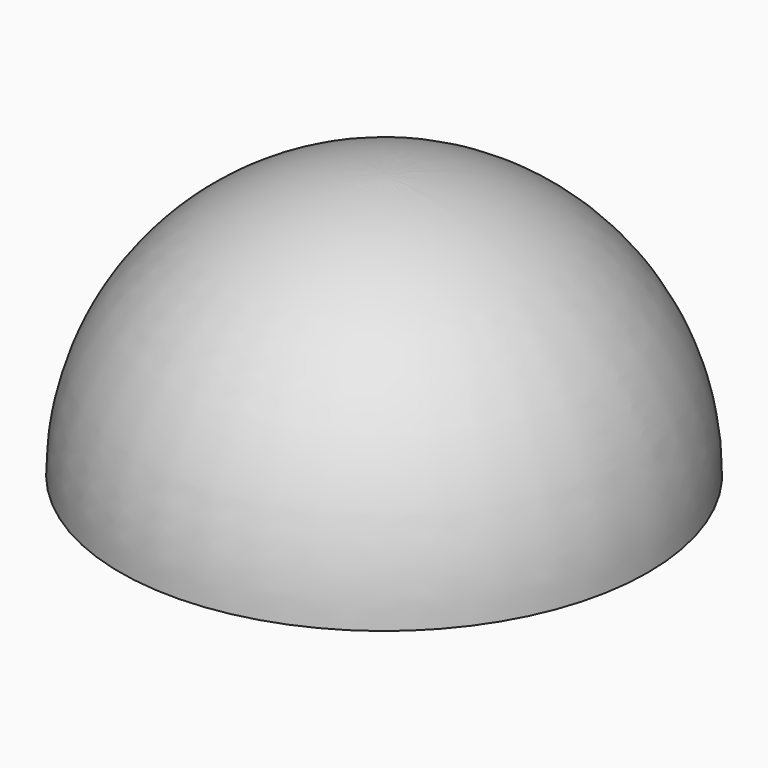
from build123d import *

# Parameters (mm, degrees)
F2_R     = 2
F3_DEPTH = 25


with BuildPart() as f1:
    # F0 (on Front) → F1 (revolve)
    with BuildSketch(Plane.XZ):
        with BuildLine():
            Line((0, 0), (17.5, 0))
            ThreePointArc((17.5, 0), (12.374369, 12.374369), (0, 17.5))
            Line((0, 17.5), (0, 0))
        make_face()
    revolve(axis=Axis((0, 0, 8.75), (0, 0, 1)))

    # F2 (on Front) → F3 (cut)
    with BuildSketch(Plane.XZ):
        with Locations((-6, 8)):
            Circle(F2_R)
        with Locations((6, 8)):
            Circle(F2_R)
    extrude(amount=-F3_DEPTH, mode=Mode.SUBTRACT)


solid = f1.part
